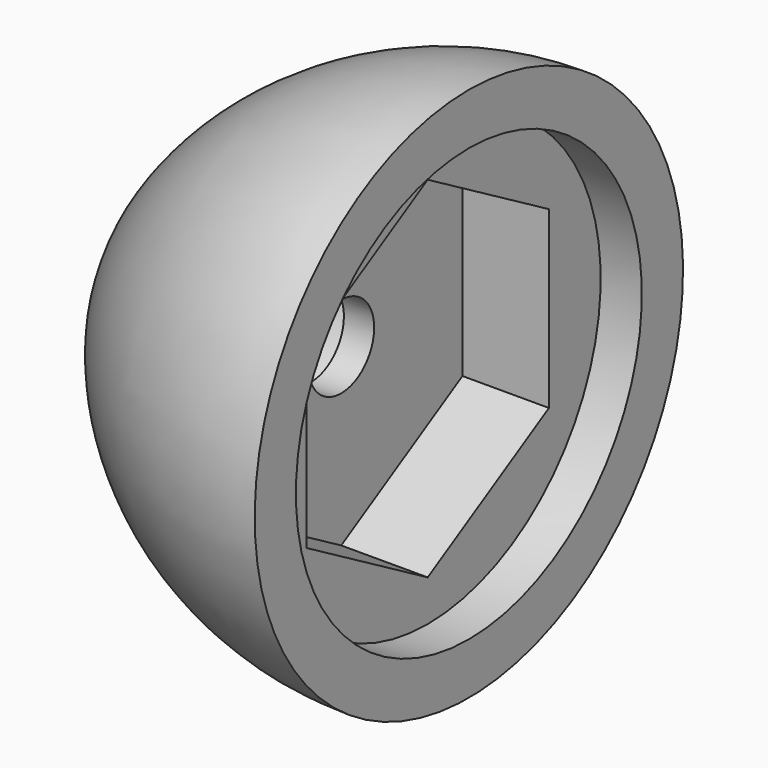
from build123d import *

# Parameters (mm, degrees)
F2_R     = 0.3
F4_DEPTH = 4.2


with BuildPart() as f1:
    # F0 (on Front) → F1 (revolve)
    with BuildSketch(Plane.XZ):
        with BuildLine():
            ThreePointArc((-2.0143112539, 9.8506723092), (-10.0387856326, 7.8756525688), (-16.1843112539, 2.3506723092))
            Line((-16.1843112539, 2.3506723092), (-9.6843112539, 2.3506723092))
            Line((-9.6843112539, 2.3506723092), (-9.6843112539, -1.1493276908))
            Line((-9.6843112539, -1.1493276908), (-8.2143112539, -1.1493276908))
            Line((-8.2143112539, -1.1493276908), (-8.2143112539, 5.3506723092))
            Line((-8.2143112539, 5.3506723092), (-4.0143112539, 5.3506723092))
            Line((-4.0143112539, 5.3506723092), (-4.0143112539, 7.3506723092))
            Line((-4.0143112539, 7.3506723092), (-2.0143112539, 7.3506723092))
            Line((-2.0143112539, 7.3506723092), (-2.0143112539, 9.8506723092))
        make_face()
    revolve(axis=Axis((-7.483886322, 0, -3.1493276908), (1, 0, 0)))

    # F2
    f2_edges = [f1.edges().sort_by_distance(p)[0] for p in [
        (-16.184311, 0, -8.649328),
    ]]
    fillet(f2_edges, radius=F2_R)

    # F3 (on face) → F4 (join)
    with BuildSketch(Plane.YZ.offset(-8.2143112539)):
        with BuildLine():
            Line((-7.3612159322, 1.1006723092), (0, 5.3506723092))
            ThreePointArc((0, 5.3506723092), (-4.25, 4.2118882414), (-7.3612159322, 1.1006723092))
        make_face()
        with BuildLine():
            Line((0, 5.3506723092), (7.3612159322, 1.1006723092))
            ThreePointArc((7.3612159322, 1.1006723092), (4.25, 4.2118882414), (0, 5.3506723092))
        make_face()
        with BuildLine():
            ThreePointArc((7.3612159322, -7.3993276908), (8.2103695235, -5.3492895741), (8.5, -3.1493276908))
            ThreePointArc((8.5, -3.1493276908), (8.2103695235, -0.9493658074), (7.3612159322, 1.1006723092))
            Line((7.3612159322, 1.1006723092), (7.3612159322, -7.3993276908))
        make_face()
        with BuildLine():
            Line((-7.3612159322, -7.3993276908), (-7.3612159322, 1.1006723092))
            ThreePointArc((-7.3612159322, 1.1006723092), (-8.5, -3.1493276908), (-7.3612159322, -7.3993276908))
        make_face()
        with BuildLine():
            ThreePointArc((-7.3612159322, -7.3993276908), (-4.25, -10.5105436229), (0, -11.6493276908))
            Line((0, -11.6493276908), (-7.3612159322, -7.3993276908))
        make_face()
        with BuildLine():
            ThreePointArc((0, -11.6493276908), (4.25, -10.5105436229), (7.3612159322, -7.3993276908))
            Line((7.3612159322, -7.3993276908), (0, -11.6493276908))
        make_face()
    extrude(amount=F4_DEPTH)


solid = f1.part
